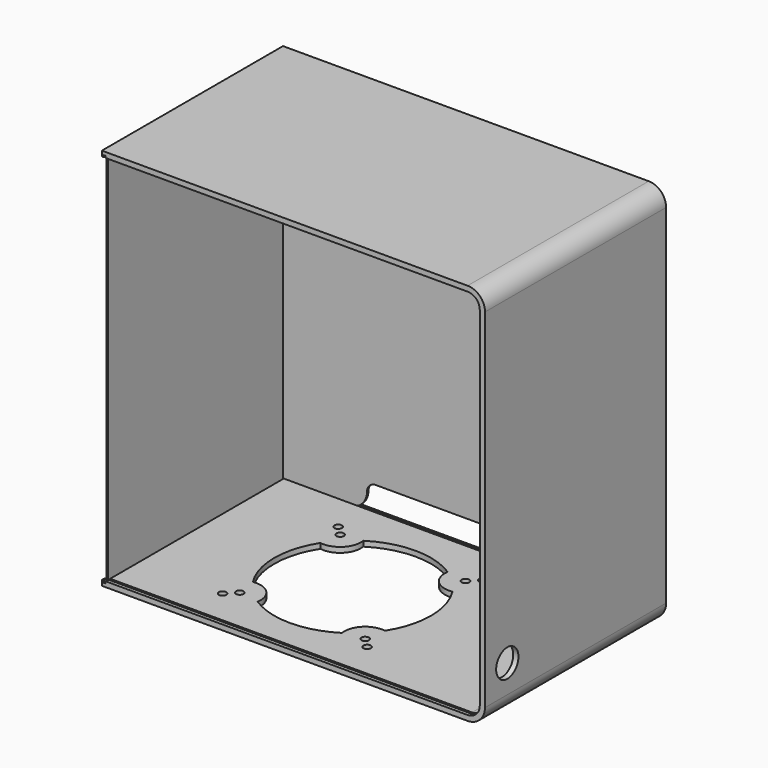
from build123d import *

# Parameters (mm, degrees)
F3_R      = 2.15
F4_DEPTH  = 25
F5_W      = 1.2
F5_H      = 1.1
F6_DEPTH  = 130.001
F8_D      = 2.5
F8_DEPTH  = 3.001
F9_R      = 8
F10_DEPTH = 3
F11_W     = 125.5
F11_H     = 216.2
F12_DEPTH = 1
F14_DEPTH = 1


with BuildPart() as f2:
    # F2: sweep along a path in F1
    with BuildLine(Plane.XZ) as f2_path:
        Line((0, 0), (210, 0))
        ThreePointArc((210, 0), (217.0710678119, 2.9289321881), (220, 10))
        Line((220, 10), (220, 210))
        ThreePointArc((220, 210), (217.0710678119, 217.0710678119), (210, 220))
        Line((210, 220), (0, 220))
    # F0 (on Right) → F2 (sweep)
    with BuildSketch(Plane.YZ):
        Polygon((-65, 3), (-65, 0), (65, 0), (65, 3), (64, 3), (64, 1.9), (62.8, 1.9), (62.8, 3), (-61.8, 3), (-61.8, 1.9), (-63, 1.9), (-63, 3), align=None)
    sweep(path=f2_path.line)

    # F3 (on face) → F4 (cut)
    with BuildSketch(Plane.XY.offset(3)):
        with BuildLine():
            ThreePointArc((67.7572959174, 37.91162485), (64.4228355337, 27.5771644663), (54.08837515, 24.2427040826))
            ThreePointArc((54.08837515, 24.2427040826), (47, 0), (54.08837515, -24.2427040826))
            ThreePointArc((54.08837515, -24.2427040826), (64.4228355337, -27.5771644663), (67.7572959174, -37.91162485))
            ThreePointArc((67.7572959174, -37.91162485), (92, -45), (116.2427040826, -37.91162485))
            ThreePointArc((116.2427040826, -37.91162485), (119.5771644663, -27.5771644663), (129.91162485, -24.2427040826))
            ThreePointArc((129.91162485, -24.2427040826), (137, 0), (129.91162485, 24.2427040826))
            ThreePointArc((129.91162485, 24.2427040826), (119.5771644663, 27.5771644663), (116.2427040826, 37.91162485))
            ThreePointArc((116.2427040826, 37.91162485), (92, 45), (67.7572959174, 37.91162485))
        make_face()
        with Locations((56, 36)):
            Circle(F3_R)
        with Locations((50.5, 41.5)):
            Circle(F3_R)
        with Locations((56, -36)):
            Circle(F3_R)
        with Locations((50.5, -41.5)):
            Circle(F3_R)
        with Locations((128, 36)):
            Circle(F3_R)
        with Locations((133.5, 41.5)):
            Circle(F3_R)
        with Locations((133.5, -41.5)):
            Circle(F3_R)
        with Locations((128, -36)):
            Circle(F3_R)
    extrude(amount=-F4_DEPTH, mode=Mode.SUBTRACT)

    # F5 (on face) → F6 (cut, through all)
    with BuildSketch(Plane(origin=(0, 65, 0), x_dir=(-1, 0, 0), z_dir=(0, 1, 0))):
        with Locations((-1.6, 2.45)):
            Rectangle(F5_W, F5_H)
        with Locations((-1.6, 217.55)):
            Rectangle(F5_W, F5_H)
    extrude(amount=-F6_DEPTH, mode=Mode.SUBTRACT)

    # F8 (through all, one way)
    with BuildSketch(Plane.XY.offset(3)):
        with Locations((202, 2.2), (202, -11.8)):
            Circle(F8_D / 2)
    extrude(amount=-F8_DEPTH, mode=Mode.SUBTRACT)

    # F9 (on face) → F10 (cut, through all)
    with BuildSketch(Plane.YZ.offset(220)):
        with Locations((-49, 26)):
            Circle(F9_R)
    extrude(amount=-F10_DEPTH, mode=Mode.SUBTRACT)


with BuildPart() as f12:
    # F11 (on face) → F12 (new body)
    with BuildSketch(Plane.YZ.offset(1)):
        with Locations((-0.25, 110)):
            Rectangle(F11_W, F11_H)
    extrude(amount=F12_DEPTH)


with BuildPart() as f14:
    # F13 (on face) → F14 (new body)
    with BuildSketch(Plane(origin=(0, 62.8, 0), x_dir=(-1, 0, 0), z_dir=(0, 1, 0))):
        with BuildLine():
            Line((-40, 1.9), (0, 1.9))
            Line((0, 1.9), (0, 218.1))
            Line((0, 218.1), (-210, 218.1))
            ThreePointArc((-210, 218.1), (-215.7275649276, 215.7275649276), (-218.1, 210))
            Line((-218.1, 210), (-218.1, 10))
            ThreePointArc((-218.1, 10), (-215.7275649276, 4.2724350724), (-210, 1.9))
            Line((-210, 1.9), (-180, 1.9))
            ThreePointArc((-180, 1.9), (-172.9289321881, 4.8289321881), (-170, 11.9))
            ThreePointArc((-170, 11.9), (-168.5355339059, 15.4355339059), (-165, 16.9))
            Line((-165, 16.9), (-55, 16.9))
            ThreePointArc((-55, 16.9), (-51.4644660941, 15.4355339059), (-50, 11.9))
            ThreePointArc((-50, 11.9), (-47.0710678119, 4.8289321881), (-40, 1.9))
        make_face()
    extrude(amount=F14_DEPTH)


solid = Compound([f2.part, f12.part, f14.part])
